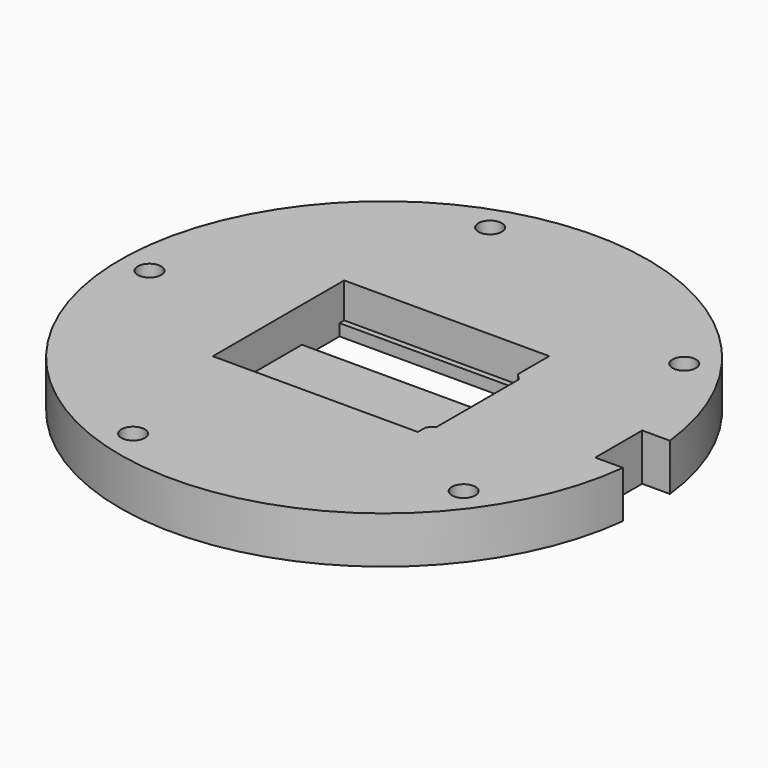
from build123d import *

# Parameters (mm, degrees)
SKETCH_R        = 45
PAD_DEPTH       = 8
POCKET_DEPTH    = 6
SKETCH013_R     = 2
POCKET006_DEPTH = 10
SKETCH016_W     = 35
SKETCH016_H     = 8
POCKET009_DEPTH = 5
SKETCH017_W     = 5
SKETCH017_H     = 10
POCKET010_DEPTH = 10


with BuildPart() as part:
    # Sketch → Pad (new body)
    with BuildSketch(Plane.XY):
        Circle(SKETCH_R)
    extrude(amount=PAD_DEPTH)

    # Sketch002 (on Face3 of Pad) → Pocket (cut)
    with BuildSketch(Plane.XY.offset(8)):
        Polygon((-18, 14), (-18, -14), (16.95, -14), (16.95, -12.3), (18, -11.25), (18, 6.25), (16.95, 7.3), (16.95, 14), align=None)
    extrude(amount=-POCKET_DEPTH, mode=Mode.SUBTRACT)

    # Sketch013 (on Face3 of Pocket) → Pocket006 (cut)
    with BuildSketch(Plane.XY.offset(8)):
        with Locations((-40, 0)):
            Circle(SKETCH013_R)
        with Locations((-12.363995, 38.041183)):
            Circle(SKETCH013_R)
        with Locations((32.356581, 23.51705)):
            Circle(SKETCH013_R)
        with Locations((32.366826, -23.502949)):
            Circle(SKETCH013_R)
        with Locations((-12.347418, -38.046567)):
            Circle(SKETCH013_R)
    extrude(amount=-POCKET006_DEPTH, mode=Mode.SUBTRACT)

    # Sketch016 (on Face17 of Pocket006) → Pocket009 (cut)
    with BuildSketch(Plane.XY.offset(2)):
        with Locations((-0.5, -9)):
            Rectangle(SKETCH016_W, SKETCH016_H)
        with Locations((-0.5, 9)):
            Rectangle(SKETCH016_W, SKETCH016_H)
    extrude(amount=-POCKET009_DEPTH, mode=Mode.SUBTRACT)

    # Sketch017 (on Face3 of Pocket009) → Pocket010 (cut)
    with BuildSketch(Plane.XY.offset(8)):
        with Locations((42.5, 0)):
            Rectangle(SKETCH017_W, SKETCH017_H)
    extrude(amount=-POCKET010_DEPTH, mode=Mode.SUBTRACT)


with BuildPart() as part_1:
    # Body placement: moved
    add(part.part.moved(Location((0, 0, 15))))


solid = part_1.part
